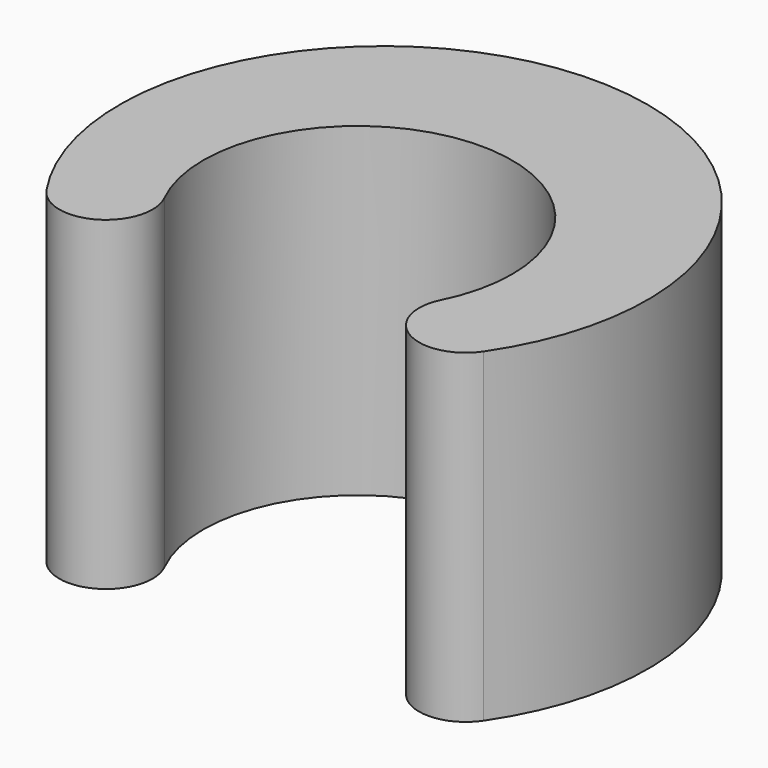
from build123d import *

# Parameters (mm, degrees)
PAD_DEPTH = 8


with BuildPart() as part:
    # Sketch → Pad (new body)
    with BuildSketch(Plane.XY):
        with BuildLine():
            ThreePointArc((3.4, -1.697056), (0, 3.8), (-3.4, -1.697056))
            ThreePointArc((-5.375368, -2.854507), (-3.846525, -3.199354), (-3.4, -1.697056))
            ThreePointArc((5.375368, -2.854507), (0, 7.3), (-5.375368, -2.854507))
            ThreePointArc((3.4, -1.697056), (3.846525, -3.199354), (5.375368, -2.854507))
        make_face()
    extrude(amount=PAD_DEPTH)


solid = part.part
